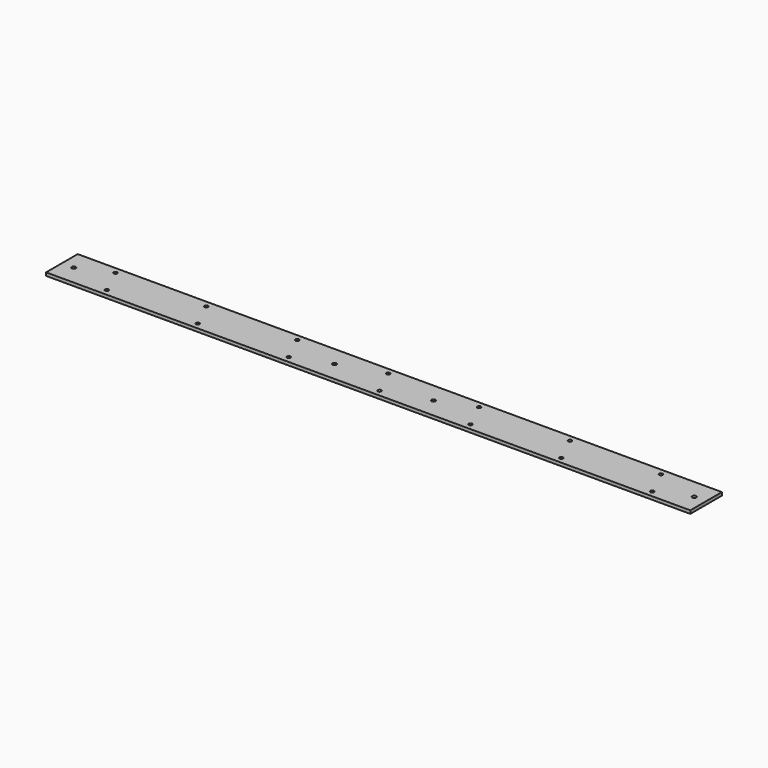
from build123d import *

# Parameters (mm, degrees)
F0_W     = 815
F0_H     = 50
F0_R     = 2.25
F1_DEPTH = 4
F2_D     = 5


with BuildPart() as f1:
    # F0 (on Top) → F1 (new body)
    with BuildSketch(Plane.XY):
        Rectangle(F0_W, F0_H)
        with Locations((-337, -17)):
            Circle(F0_R, mode=Mode.SUBTRACT)
        with Locations((-222, -17)):
            Circle(F0_R, mode=Mode.SUBTRACT)
        with Locations((-107, -17)):
            Circle(F0_R, mode=Mode.SUBTRACT)
        with Locations((8, -17)):
            Circle(F0_R, mode=Mode.SUBTRACT)
        with Locations((123, -17)):
            Circle(F0_R, mode=Mode.SUBTRACT)
        with Locations((238, -17)):
            Circle(F0_R, mode=Mode.SUBTRACT)
        with Locations((353, -17)):
            Circle(F0_R, mode=Mode.SUBTRACT)
        with Locations((-353.38, 17)):
            Circle(F0_R, mode=Mode.SUBTRACT)
        with Locations((-238.38, 17)):
            Circle(F0_R, mode=Mode.SUBTRACT)
        with Locations((-123.38, 17)):
            Circle(F0_R, mode=Mode.SUBTRACT)
        with Locations((-8.38, 17)):
            Circle(F0_R, mode=Mode.SUBTRACT)
        with Locations((106.62, 17)):
            Circle(F0_R, mode=Mode.SUBTRACT)
        with Locations((221.62, 17)):
            Circle(F0_R, mode=Mode.SUBTRACT)
        with Locations((336.62, 17)):
            Circle(F0_R, mode=Mode.SUBTRACT)
    extrude(amount=F1_DEPTH)

    # F2 (through all)
    with Locations(Plane(origin=(0, 0, 0), x_dir=(1, 0, 0), z_dir=(0, 0, -1))):
        with Locations((-392.5, 0), (-62.5, 0), (62.5, 0), (392.5, 0)):
            Hole(F2_D / 2)


solid = f1.part
